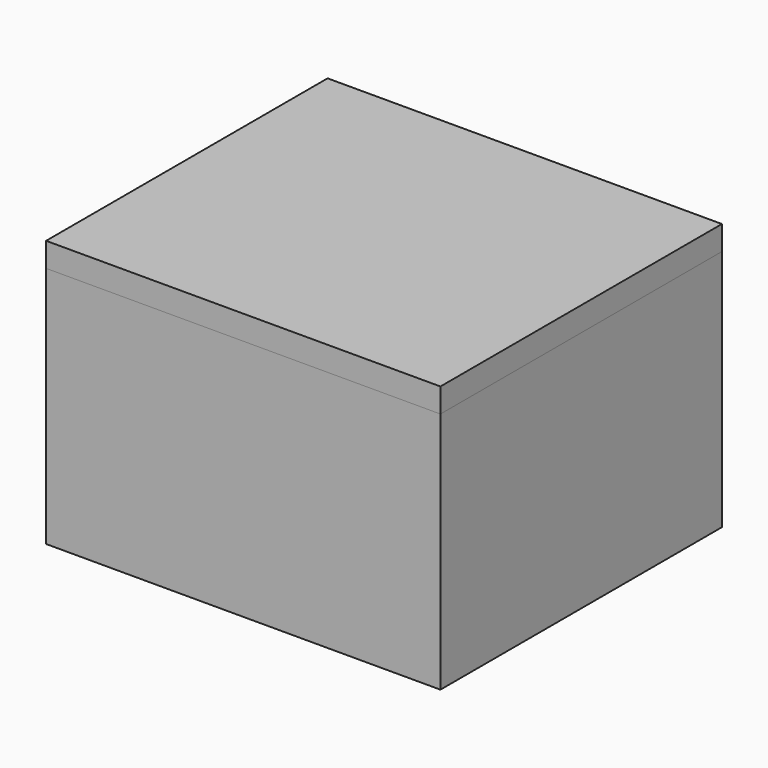
from build123d import *

# Parameters (mm, degrees)
F0_W     = 65
F0_H     = 58
F1_DEPTH = 40
F2_T     = -4
F3_W     = 65
F3_H     = 58
F4_DEPTH = 4


with BuildPart() as f1:
    # F0 (on Top) → F1 (new body)
    with BuildSketch(Plane.XY):
        Rectangle(F0_W, F0_H)
    extrude(amount=F1_DEPTH)

    # F2
    f2_openings = [f1.faces().sort_by_distance(p)[0] for p in [
        (0, 0, 40),
    ]]
    offset(amount=F2_T, openings=f2_openings)


with BuildPart() as f4:
    # F3 (on face) → F4 (new body)
    with BuildSketch(Plane.XY.offset(40)):
        Rectangle(F3_W, F3_H)
    extrude(amount=F4_DEPTH)


solid = Compound([f1.part, f4.part])
